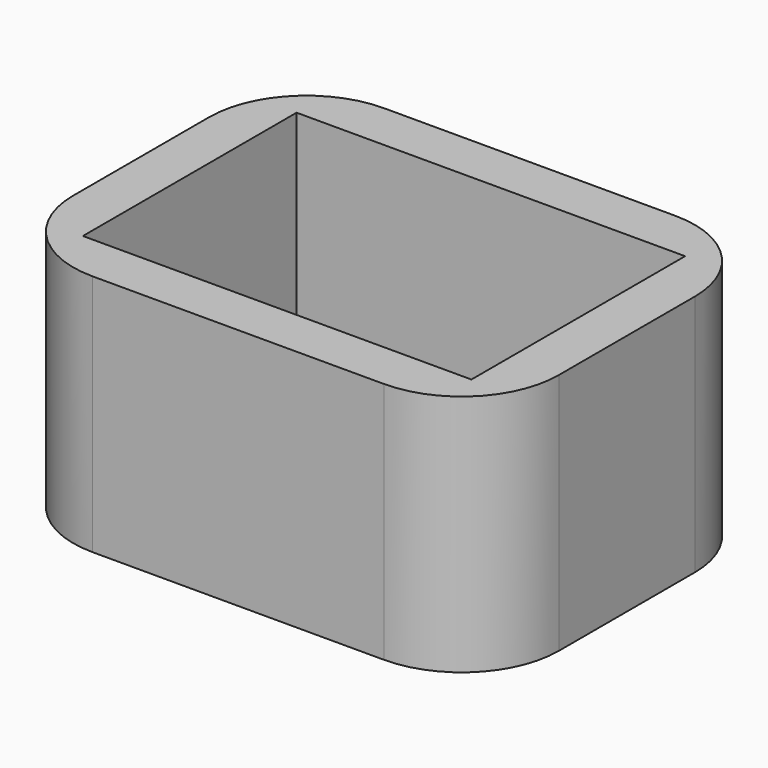
from build123d import *

# Parameters (mm, degrees)
F0_W     = 12.7
F0_H     = 9.525
F0_W_2   = 10.16
F0_H_2   = 6.985
F1_DEPTH = 6.35
F2_R     = 2.54
F3_R     = 2.54
F4_R     = 2.54


with BuildPart() as f1:
    # F0 (on Top) → F1 (new body)
    with BuildSketch(Plane.XY):
        with Locations((6.35, -4.7625)):
            Rectangle(F0_W, F0_H)
        with Locations((6.35, -4.7625)):
            Rectangle(F0_W_2, F0_H_2, mode=Mode.SUBTRACT)
    extrude(amount=F1_DEPTH)

    # F2
    f2_edges = [f1.edges().sort_by_distance(p)[0] for p in [
        (12.7, -9.525, 3.175),
    ]]
    fillet(f2_edges, radius=F2_R)

    # F3
    f3_edges = [f1.edges().sort_by_distance(p)[0] for p in [
        (0, -9.525, 3.175),
    ]]
    fillet(f3_edges, radius=F3_R)

    # F4
    f4_edges = [f1.edges().sort_by_distance(p)[0] for p in [
        (12.7, 0, 3.175),
        (0, 0, 3.175),
    ]]
    fillet(f4_edges, radius=F4_R)


solid = f1.part
